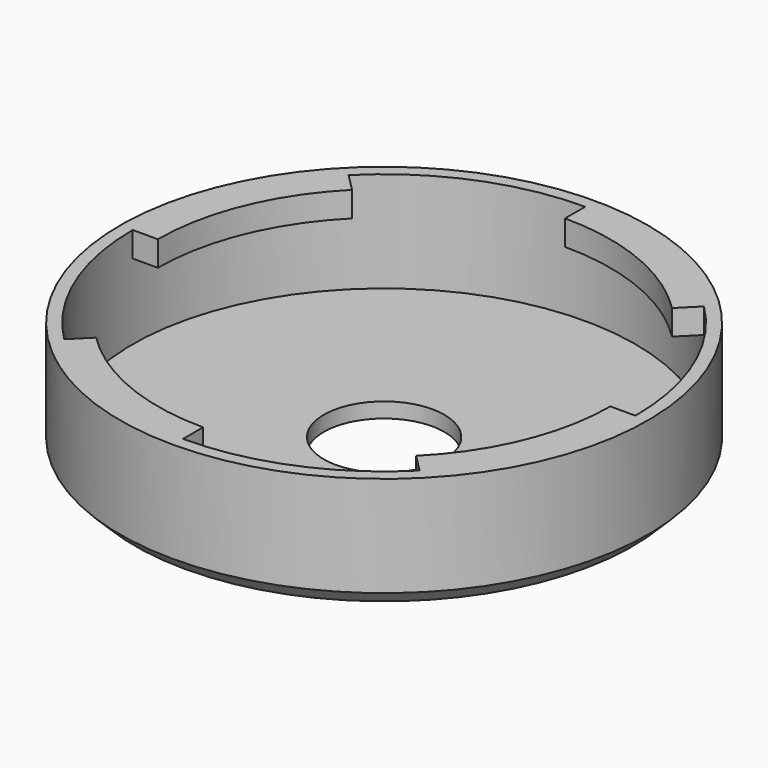
from build123d import *

# Parameters (mm, degrees)
F0_R     = 12
F1_DEPTH = 3
F2_DEPTH = 23
F4_START = 18
F4_DEPTH = 5
F5_SIZE  = 3


with BuildPart() as f1:
    # F0 (on Top) → F1 (new body)
    with BuildSketch(Plane.XY):
        with BuildLine():
            ThreePointArc((0, -50), (35.3553390593, -35.3553390593), (50, 0))
            ThreePointArc((50, 0), (-35.3553390593, 35.3553390593), (0, -50))
        make_face()
        Circle(F0_R, mode=Mode.SUBTRACT)
    extrude(amount=F1_DEPTH)

    # F0 (on Top) → F2 (join)
    with BuildSketch(Plane.XY):
        with BuildLine():
            ThreePointArc((52.5, 0), (-37.1231060123, 37.1231060123), (0, -52.5))
            ThreePointArc((0, -52.5), (37.1231060123, -37.1231060123), (52.5, 0))
        make_face()
        with BuildLine():
            ThreePointArc((0, -50), (-35.3553390593, 35.3553390593), (50, 0))
            ThreePointArc((50, 0), (35.3553390593, -35.3553390593), (0, -50))
        make_face(mode=Mode.SUBTRACT)
    extrude(amount=F2_DEPTH)

    # F3 (on Top) → F4 (join)
    with BuildSketch(Plane.XY.offset(F4_START)):
        with BuildLine():
            Line((31.8198051534, -31.8198051534), (35.3553390593, -35.3553390593))
            ThreePointArc((35.3553390593, -35.3553390593), (46.1939766256, -19.1341716183), (50, 0))
            Line((50, 0), (45, 0))
            ThreePointArc((45, 0), (41.574578963, -17.2207544564), (31.8198051534, -31.8198051534))
        make_face()
        with BuildLine():
            ThreePointArc((-45, 0), (-41.574578963, 17.2207544564), (-31.8198051534, 31.8198051534))
            Line((-31.8198051534, 31.8198051534), (-35.3553390593, 35.3553390593))
            ThreePointArc((-35.3553390593, 35.3553390593), (-46.1939766256, 19.1341716183), (-50, 0))
            Line((-50, 0), (-45, 0))
        make_face()
        with BuildLine():
            ThreePointArc((35.3553390593, 35.3553390593), (19.1341716183, 46.1939766256), (0, 50))
            Line((0, 50), (0, 45))
            ThreePointArc((0, 45), (17.2207544564, 41.574578963), (31.8198051534, 31.8198051534))
            Line((31.8198051534, 31.8198051534), (35.3553390593, 35.3553390593))
        make_face()
        with BuildLine():
            Line((-31.8198051534, -31.8198051534), (-35.3553390593, -35.3553390593))
            ThreePointArc((-35.3553390593, -35.3553390593), (-19.1341716183, -46.1939766256), (0, -50))
            Line((0, -50), (0, -45))
            ThreePointArc((0, -45), (-17.2207544564, -41.574578963), (-31.8198051534, -31.8198051534))
        make_face()
    extrude(amount=F4_DEPTH)

    # F5
    f5_edges = [f1.edges().sort_by_distance(p)[0] for p in [
        (0, 52.5, 0),
    ]]
    chamfer(f5_edges, length=F5_SIZE)


solid = f1.part
